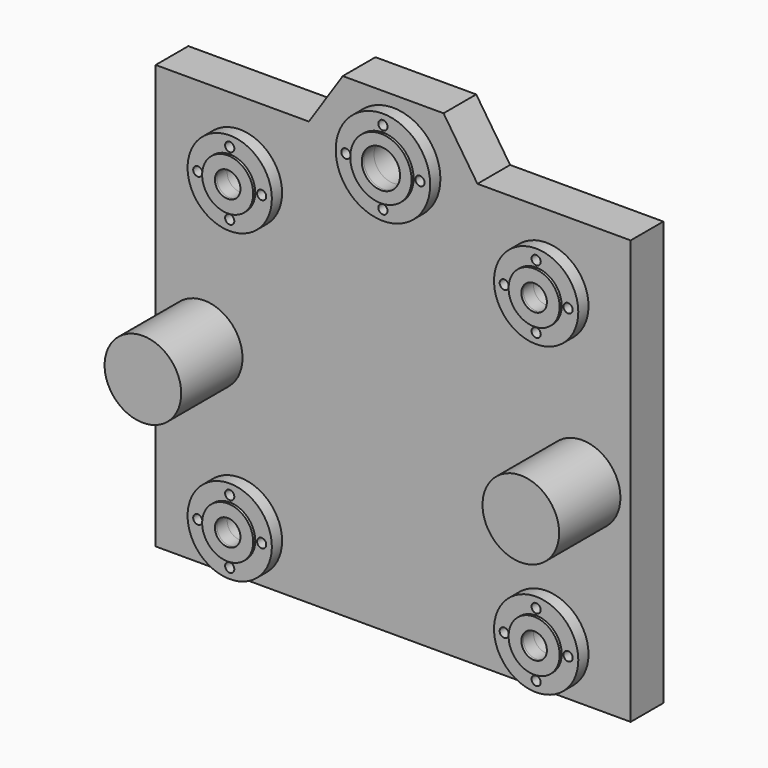
from build123d import *

# Parameters (mm, degrees)
F0_W      = 690
F0_H      = 350
F0_H_2    = 200
F1_DEPTH  = 80
F2_R      = 25
F2_R_2    = 75
F3_DEPTH  = 100
F4_R      = 75
F5_DEPTH  = 150
F6_R      = 82.5
F6_R_2    = 9
F6_R_3    = 25
F7_DEPTH  = 25
F8_R      = 50
F8_R_2    = 25
F9_DEPTH  = 5
F10_R     = 75
F11_DEPTH = 25
F12_R     = 37.5
F13_DEPTH = 100
F14_R     = 92.5
F14_R_2   = 9
F14_R_3   = 37.5
F15_DEPTH = 25
F16_R     = 60
F16_R_2   = 37.5
F17_DEPTH = 5
F18_W     = 930
F18_H     = 1000
F19_DEPTH = 100
F20_R     = 7
F21_DEPTH = 50
F22_W     = 300
F22_H     = 100
F23_DEPTH = 80


with BuildPart() as f1:
    # F0 (on Front) → F1 (new body)
    with BuildSketch(Plane.XZ):
        Polygon((345, -965), (465, -965), (465, 965), (-465, 965), (-465, -965), (-345, -965), (-345, -765), (345, -765), align=None)
        with Locations((0, -470)):
            Rectangle(F0_W, F0_H, mode=Mode.SUBTRACT)
        with Locations((0, -75)):
            Rectangle(F0_W, F0_H_2, mode=Mode.SUBTRACT)
    extrude(amount=F1_DEPTH)

    # F2 (on face) → F3 (cut)
    with BuildSketch(Plane.XZ.offset(80)):
        with Locations((-300, 125)):
            Circle(F2_R)
        with Locations((0, 425)):
            Circle(F2_R_2)
        with Locations((-300, 725)):
            Circle(F2_R)
        with Locations((300, 125)):
            Circle(F2_R)
        with Locations((300, 725)):
            Circle(F2_R)
    extrude(amount=-F3_DEPTH, mode=Mode.SUBTRACT)

    # F4 (on face) → F5 (join)
    with BuildSketch(Plane.XZ.offset(80)):
        with Locations((-370, 415)):
            Circle(F4_R)
        with Locations((370, 415)):
            Circle(F4_R)
    extrude(amount=F5_DEPTH)

    # F6 (on face) → F7 (join)
    with BuildSketch(Plane.XZ.offset(80)):
        with Locations((-300, 725)):
            Circle(F6_R)
        with Locations((-300, 662.5)):
            Circle(F6_R_2, mode=Mode.SUBTRACT)
        with Locations((-362.5, 725)):
            Circle(F6_R_2, mode=Mode.SUBTRACT)
        with Locations((-300, 725)):
            Circle(F6_R_3, mode=Mode.SUBTRACT)
        with Locations((-300, 787.5)):
            Circle(F6_R_2, mode=Mode.SUBTRACT)
        with Locations((-237.5, 725)):
            Circle(F6_R_2, mode=Mode.SUBTRACT)
        with Locations((-300, 125)):
            Circle(F6_R)
        with Locations((-300, 62.5)):
            Circle(F6_R_2, mode=Mode.SUBTRACT)
        with Locations((-362.5, 125)):
            Circle(F6_R_2, mode=Mode.SUBTRACT)
        with Locations((-300, 125)):
            Circle(F6_R_3, mode=Mode.SUBTRACT)
        with Locations((-237.5, 125)):
            Circle(F6_R_2, mode=Mode.SUBTRACT)
        with Locations((-300, 187.5)):
            Circle(F6_R_2, mode=Mode.SUBTRACT)
        with Locations((300, 725)):
            Circle(F6_R)
        with Locations((300, 662.5)):
            Circle(F6_R_2, mode=Mode.SUBTRACT)
        with Locations((237.5, 725)):
            Circle(F6_R_2, mode=Mode.SUBTRACT)
        with Locations((300, 725)):
            Circle(F6_R_3, mode=Mode.SUBTRACT)
        with Locations((362.5, 725)):
            Circle(F6_R_2, mode=Mode.SUBTRACT)
        with Locations((300, 787.5)):
            Circle(F6_R_2, mode=Mode.SUBTRACT)
        with Locations((300, 125)):
            Circle(F6_R)
        with Locations((237.5, 125)):
            Circle(F6_R_2, mode=Mode.SUBTRACT)
        with Locations((300, 62.5)):
            Circle(F6_R_2, mode=Mode.SUBTRACT)
        with Locations((300, 125)):
            Circle(F6_R_3, mode=Mode.SUBTRACT)
        with Locations((362.5, 125)):
            Circle(F6_R_2, mode=Mode.SUBTRACT)
        with Locations((300, 187.5)):
            Circle(F6_R_2, mode=Mode.SUBTRACT)
    extrude(amount=F7_DEPTH)

    # F8 (on face) → F9 (join)
    with BuildSketch(Plane.XZ.offset(105)):
        with Locations((-300, 725)):
            Circle(F8_R)
        with Locations((-300, 725)):
            Circle(F8_R_2, mode=Mode.SUBTRACT)
        with Locations((-300, 125)):
            Circle(F8_R)
        with Locations((-300, 125)):
            Circle(F8_R_2, mode=Mode.SUBTRACT)
        with Locations((300, 725)):
            Circle(F8_R)
        with Locations((300, 725)):
            Circle(F8_R_2, mode=Mode.SUBTRACT)
        with Locations((300, 125)):
            Circle(F8_R)
        with Locations((300, 125)):
            Circle(F8_R_2, mode=Mode.SUBTRACT)
    extrude(amount=F9_DEPTH)

    # F10 (on face) → F11 (join)
    with BuildSketch(Plane.XZ.offset(80)):
        with Locations((0, 425)):
            Circle(F10_R)
    extrude(amount=-F11_DEPTH)

    # F12 (on face) → F13 (cut)
    with BuildSketch(Plane.XZ.offset(80)):
        with Locations((0, 850)):
            Circle(F12_R)
    extrude(amount=-F13_DEPTH, mode=Mode.SUBTRACT)

    # F14 (on face) → F15 (join)
    with BuildSketch(Plane.XZ.offset(80)):
        with Locations((0, 850)):
            Circle(F14_R)
        with Locations((-72.5, 850)):
            Circle(F14_R_2, mode=Mode.SUBTRACT)
        with Locations((0, 777.5)):
            Circle(F14_R_2, mode=Mode.SUBTRACT)
        with Locations((0, 850)):
            Circle(F14_R_3, mode=Mode.SUBTRACT)
        with Locations((0, 922.5)):
            Circle(F14_R_2, mode=Mode.SUBTRACT)
        with Locations((72.5, 850)):
            Circle(F14_R_2, mode=Mode.SUBTRACT)
    extrude(amount=F15_DEPTH)

    # F16 (on face) → F17 (join)
    with BuildSketch(Plane.XZ.offset(105)):
        with Locations((0, 850)):
            Circle(F16_R)
        with Locations((0, 850)):
            Circle(F16_R_2, mode=Mode.SUBTRACT)
    extrude(amount=F17_DEPTH)

    # F18 (on face) → F19 (cut)
    with BuildSketch(Plane.XZ.offset(80)):
        with Locations((0, -465)):
            Rectangle(F18_W, F18_H)
    extrude(amount=-F19_DEPTH, mode=Mode.SUBTRACT)

    # F20 (on face) → F21 (cut)
    with BuildSketch(Plane(origin=(0, 0, 35), x_dir=(1, 0, 0), z_dir=(0, 0, -1))):
        with Locations((-400, 40)):
            Circle(F20_R)
        with Locations((400, 40)):
            Circle(F20_R)
    extrude(amount=-F21_DEPTH, mode=Mode.SUBTRACT)

    # F22 (on face) → F23 (cut)
    with BuildSketch(Plane.XZ.offset(80)):
        with Locations((-315, 915)):
            Rectangle(F22_W, F22_H)
        Polygon((-98.6675041929, 965), (-165, 965), (-165, 865), align=None)
        with Locations((315, 915)):
            Rectangle(F22_W, F22_H)
        Polygon((165, 865), (165, 965), (98.6675041929, 965), align=None)
    extrude(amount=-F23_DEPTH, mode=Mode.SUBTRACT)


solid = f1.part
